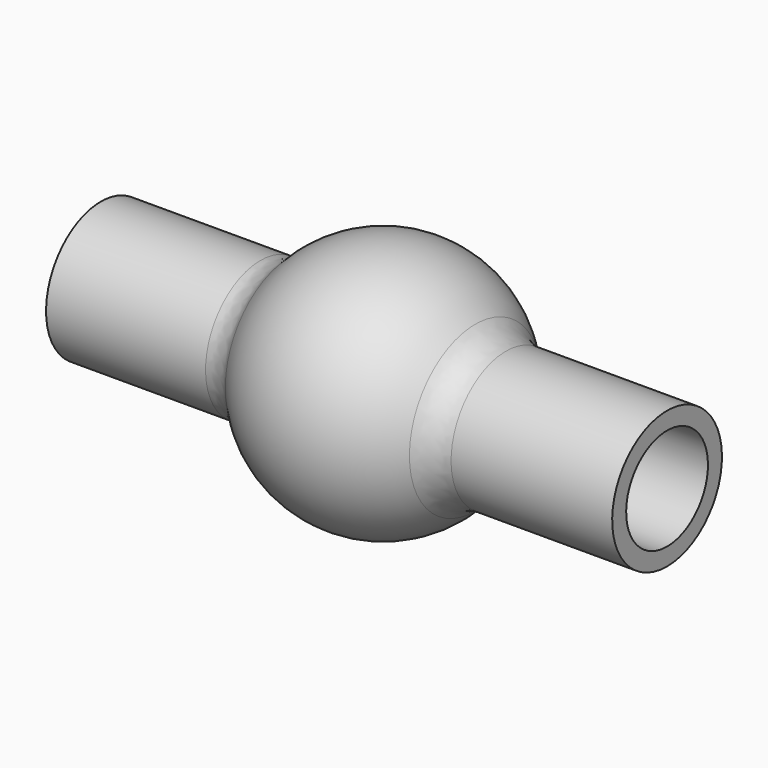
from build123d import *

# Parameters (mm, degrees)
F2_R = 5.08


with BuildPart() as f1:
    # F0 (on Front) → F1 (revolve)
    with BuildSketch(Plane.XZ):
        with BuildLine():
            Line((13.8739851165, -6.3063568712), (0.0960148835, -6.3063568712))
            Line((0.0960148835, -6.3063568712), (-13.8739851165, -6.3063568712))
            ThreePointArc((-13.8739851165, -6.3063568712), (-13.3171280531, -7.4102429392), (-12.6726213959, -8.4653568711))
            Line((-12.6726213959, -8.4653568712), (12.6726213959, -8.4653568712))
            ThreePointArc((12.6726213959, -8.4653568711), (13.3171280531, -7.4102429392), (13.8739851165, -6.3063568712))
        make_face()
        with BuildLine():
            ThreePointArc((-12.6726213959, -8.4653568711), (-13.3171280531, -7.4102429392), (-13.8739851165, -6.3063568712))
            Line((-13.8739851165, -6.3063568712), (-34.8289851165, -6.3063568712))
            Line((-34.8289851165, -6.3063568712), (-34.8289851165, -8.4653568712))
            Line((-34.8289851165, -8.4653568712), (-12.6726213959, -8.4653568712))
        make_face()
        with BuildLine():
            Line((35.0210148835, -6.3063568712), (13.8739851165, -6.3063568712))
            ThreePointArc((13.8739851165, -6.3063568712), (13.3171280531, -7.4102429392), (12.6726213959, -8.4653568711))
            Line((12.6726213959, -8.4653568712), (35.0210148835, -8.4653568712))
            Line((35.0210148835, -8.4653568712), (35.0210148835, -6.3063568712))
        make_face()
        with BuildLine():
            ThreePointArc((-12.6726213959, -8.4653568711), (0, -15.24), (12.6726213959, -8.4653568711))
            Line((12.6726213959, -8.4653568712), (-12.6726213959, -8.4653568712))
        make_face()
    revolve(axis=Axis((0, 0, 0), (1, 0, 0)))

    # F2
    f2_edges = [f1.edges().sort_by_distance(p)[0] for p in [
        (-12.672621, 0, 8.465357),
        (-23.750803, 0, -8.465357),
        (0, 0, -15.24),
        (12.672621, 0, 8.465357),
        (23.846818, 0, -8.465357),
    ]]
    fillet(f2_edges, radius=F2_R)


solid = f1.part
